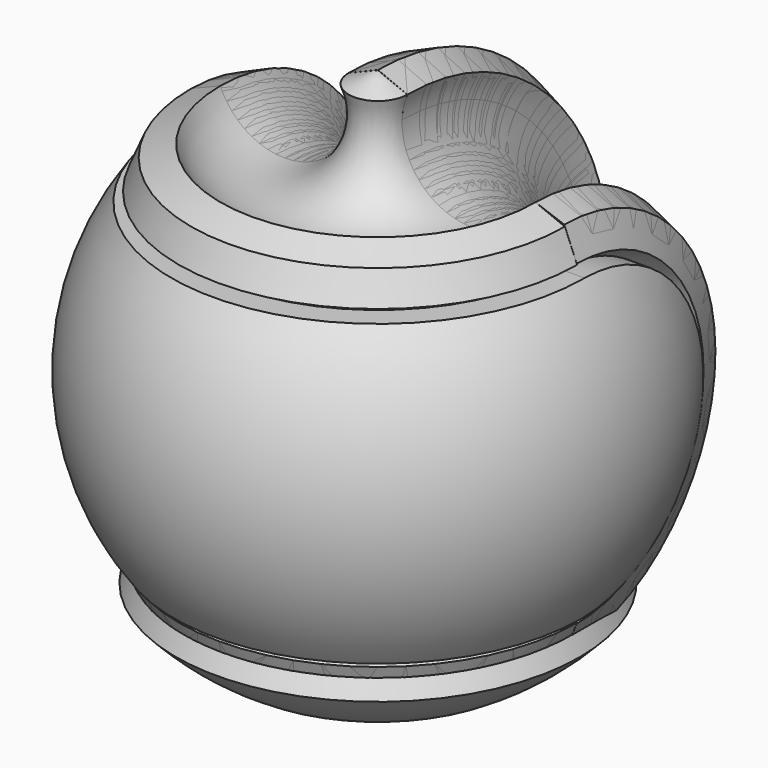
from build123d import *

# Parameters (mm, degrees)
PAD001_DEPTH        = 75
REVOLUTION_ANGLE    = 180
PAD_DEPTH           = 75
REVOLUTION001_ANGLE = -180
PAD002_DEPTH        = 1
PAD003_DEPTH        = 75
SKETCH017_W         = 91.527866
SKETCH017_H         = 19.226277
PAD010_DEPTH        = 47.5
SKETCH015_W         = 1
SKETCH015_H         = 25
PAD009_DEPTH        = 27.5
SKETCH016_W         = 13.505972
SKETCH016_H         = 9.125655
SKETCH016_H_2       = 9.612357
SKETCH016_H_3       = 9.734032
POCKET_DEPTH        = 5
SKETCH014_W         = 12.4
SKETCH014_H         = 12.4
PAD008_DEPTH        = 50
CHAMFER_SIZE        = 4
PAD005_DEPTH        = 75
REVOLUTION004_ANGLE = 180
PAD004_DEPTH        = 75
REVOLUTION003_ANGLE = -180
PAD006_DEPTH        = 1
PAD007_DEPTH        = 1
FILLET_R            = 0.9
FILLET001_R         = 0.8


with BuildPart() as pad001:
    # Sketch003 → Pad001 (new body, symmetric)
    with BuildSketch(Plane.YZ):
        with BuildLine():
            Line((-0.010298, 25.66333), (-100, 25.66333))
            Line((-100, 25.66333), (-100, -26.33667))
            Line((-0.010304, -26.33667), (-100, -26.33667))
            ThreePointArc((-0.010304, -26.33667), (25.989696, -0.336673), (-0.010298, 25.66333))
        make_face()
    extrude(amount=PAD001_DEPTH, both=True)


with BuildPart() as cut:
    # Sketch → Revolution (revolve)
    with BuildSketch(Plane.XZ):
        with BuildLine():
            Line((-45.729943, -0.0001), (-43.624967, -5.081343))
            ThreePointArc((-34.439694, -27.25386), (-27.946521, -11.575151), (-43.624967, -5.081343))
            Line((-34.439694, -27.25386), (-32.33569, -32.332756))
            Line((-32.33569, -32.332756), (-27.247774, -34.437871))
            ThreePointArc((-5.088903, -43.606058), (-11.588515, -27.952849), (-27.247774, -34.437871))
            Line((-5.088903, -43.606058), (0, -45.711581))
            Line((0, 45.696878), (0, -45.711581))
            Line((0, 45.696878), (-5.062139, 43.628512))
            ThreePointArc((-27.25988, 34.445118), (-11.589352, 27.986384), (-5.062139, 43.628512))
            Line((-32.322868, 32.378834), (-27.25988, 34.445118))
            Line((-34.440544, 27.25445), (-32.322868, 32.378834))
            ThreePointArc((-43.624947, 5.081341), (-27.946189, 11.575693), (-34.440544, 27.25445))
            Line((-43.624947, 5.081341), (-45.729943, -0.0001))
        make_face()
    revolve(axis=Axis((0, 0, 0), (0, 0, 1)), revolution_arc=REVOLUTION_ANGLE)

    # Cut: cut Pad001
    add(pad001.part, mode=Mode.SUBTRACT)


with BuildPart() as pad:
    # Sketch002 → Pad (new body, symmetric)
    with BuildSketch(Plane.YZ):
        with BuildLine():
            Line((-0.010292, 25.66333), (-52.710026, 25.66333))
            Line((-52.710026, 25.66333), (-52.710026, -26.33667))
            Line((-0.010304, -26.33667), (-52.710026, -26.33667))
            ThreePointArc((-0.010304, -26.33667), (25.989696, -0.336676), (-0.010292, 25.66333))
        make_face()
    extrude(amount=PAD_DEPTH, both=True)


with BuildPart() as pad002:
    # Sketch001 → Revolution001 (revolve)
    with BuildSketch(Plane(origin=(0, 0, 0), x_dir=(0, 0, -1), z_dir=(0, -1, 0))):
        with BuildLine():
            Line((-45.729943, -0.0001), (-43.624967, -5.081343))
            ThreePointArc((-34.439694, -27.25386), (-27.946521, -11.575151), (-43.624967, -5.081343))
            Line((-34.439694, -27.25386), (-32.33569, -32.332756))
            Line((-32.33569, -32.332756), (-27.247774, -34.437871))
            ThreePointArc((-5.088903, -43.606058), (-11.588515, -27.952849), (-27.247774, -34.437871))
            Line((-5.088903, -43.606058), (0, -45.711581))
            Line((0, 45.713883), (0, -45.711581))
            Line((0, 45.713883), (-5.281246, 43.646133))
            ThreePointArc((-27.417278, 34.389038), (-11.825552, 28.200262), (-5.281246, 43.646133))
            Line((-32.665373, 32.238537), (-27.417278, 34.389038))
            Line((-34.440544, 27.25445), (-32.665373, 32.238537))
            ThreePointArc((-43.624947, 5.081341), (-27.946189, 11.575693), (-34.440544, 27.25445))
            Line((-43.624947, 5.081341), (-45.729943, -0.0001))
        make_face()
    revolve(axis=Axis((0, 0, 0), (1, 0, 0)), revolution_arc=REVOLUTION001_ANGLE)

    # Cut001: cut Pad
    add(pad.part, mode=Mode.SUBTRACT)

    # Fusion: union Cut
    add(cut.part)

    # Sketch004 → Pad002 (new body)
    with BuildSketch(Plane(origin=(0, 0, 25.66333), x_dir=(1, 0, 0), z_dir=(0, 0, -1))):
        with BuildLine():
            ThreePointArc((-18.734768, 22.136135), (-22.323861, 18.510679), (-25.222121, 14.312394))
            Line((-26.903501, 15.401352), (-25.222121, 14.312394))
            ThreePointArc((-19.955973, 23.722545), (-23.796284, 19.867986), (-26.903501, 15.401352))
            Line((-19.955973, 23.722545), (-18.734768, 22.136135))
        make_face()
        with BuildLine():
            Line((-5.112838, 30.575462), (-5.112838, 28.545733))
            ThreePointArc((5.211598, 28.527868), (0.050181, 28.999957), (-5.112838, 28.545733))
            Line((5.211598, 30.558783), (5.211598, 28.527868))
            ThreePointArc((5.211598, 30.558783), (0.050079, 30.99996), (-5.112838, 30.575462))
        make_face()
        with BuildLine():
            Line((26.862871, 15.47211), (25.078509, 14.562568))
            ThreePointArc((25.078509, 14.562568), (22.17381, 18.690161), (18.597456, 22.251621))
            Line((19.892506, 23.77579), (18.597456, 22.251621))
            ThreePointArc((26.862871, 15.47211), (23.743506, 19.931029), (19.892506, 23.77579))
        make_face()
    extrude(amount=PAD002_DEPTH)


with BuildPart() as revolution002:
    # Sketch006 → Revolution002 (revolve)
    with BuildSketch(Plane.XZ):
        with BuildLine():
            ThreePointArc((-5e-06, 37), (-37, -3e-06), (0, -37))
            Line((0, -37), (0, -44))
            ThreePointArc((-5e-06, 44), (-44, -3e-06), (0, -44))
            Line((-5e-06, 37), (-5e-06, 44))
        make_face()
    revolve(axis=Axis((0, 0, 0), (0, 0, 1)))


with BuildPart() as common:
    # Sketch005 → Pad003 (new body, symmetric)
    with BuildSketch(Plane.YZ):
        with BuildLine():
            Line((-0.010298, 25.66333), (-100, 25.66333))
            Line((-100, 25.66333), (-100, -26.33667))
            Line((-0.010304, -26.33667), (-100, -26.33667))
            ThreePointArc((-0.010304, -26.33667), (25.989696, -0.336673), (-0.010298, 25.66333))
        make_face()
    extrude(amount=PAD003_DEPTH, both=True)

    # Common: intersect Revolution002
    add(revolution002.part, mode=Mode.INTERSECT)


with BuildPart() as pad010:
    # Sketch017 → Pad010 (new body, symmetric)
    with BuildSketch(Plane.XZ):
        with Locations((1.78233, -50.561166)):
            Rectangle(SKETCH017_W, SKETCH017_H)
    extrude(amount=PAD010_DEPTH, both=True)


with BuildPart() as pocket:
    # Sketch015 → Pad009 (new body, symmetric)
    with BuildSketch(Plane.YZ):
        with Locations((23.000852, -0.059134)):
            Rectangle(SKETCH015_W, SKETCH015_H)
    extrude(amount=PAD009_DEPTH, both=True)

    # Sketch016 → Pocket (cut)
    with BuildSketch(Plane(origin=(0, 22.500852, 0), x_dir=(0, 0, -1), z_dir=(0, -1, 0))):
        with Locations((-10.452033, 16.741771)):
            Rectangle(SKETCH016_W, SKETCH016_H)
        with Locations((10.452033, 16.741771)):
            Rectangle(SKETCH016_W, SKETCH016_H)
        with Locations((-10.330358, -16.498419)):
            Rectangle(SKETCH016_W, SKETCH016_H_2)
        with Locations((10.452033, -16.437582)):
            Rectangle(SKETCH016_W, SKETCH016_H_3)
    extrude(amount=-POCKET_DEPTH, mode=Mode.SUBTRACT)


with BuildPart() as pad008:
    # Sketch014 → Pad008 (new body, symmetric)
    with BuildSketch(Plane.XZ):
        with Locations((-16.599269, 0)):
            Rectangle(SKETCH014_W, SKETCH014_H)
        with Locations((16.599269, 0)):
            Rectangle(SKETCH014_W, SKETCH014_H)
    extrude(amount=PAD008_DEPTH, both=True)


with BuildPart() as chamfer_body:
    # Sketch013 → Revolution005 (revolve)
    with BuildSketch(Plane.XZ):
        with BuildLine():
            ThreePointArc((10.008443, -46.518567), (25.281665, -40.311083), (37.519896, -29.26437))
            Line((0, -29.26437), (37.519896, -29.26437))
            Line((0, -29.26437), (0, -46.518567))
            Line((0, -46.518567), (10.008443, -46.518567))
        make_face()
    revolve(axis=Axis((0, 0, 0), (0, 0, 1)))

    # Chamfer
    chamfer_edges = [chamfer_body.edges().sort_by_distance(p)[0] for p in [
        (-37.519896, 0, -29.26437),
    ]]
    chamfer(chamfer_edges, length=CHAMFER_SIZE)


with BuildPart() as pad005:
    # Sketch010 → Pad005 (new body, symmetric)
    with BuildSketch(Plane.YZ):
        with BuildLine():
            Line((-0.010298, 25.66333), (-100, 25.66333))
            Line((-100, 25.66333), (-100, -26.33667))
            Line((-0.010304, -26.33667), (-100, -26.33667))
            ThreePointArc((-0.010304, -26.33667), (25.989696, -0.336673), (-0.010298, 25.66333))
        make_face()
    extrude(amount=PAD005_DEPTH, both=True)


with BuildPart() as cut002:
    # Sketch007 → Revolution004 (revolve)
    with BuildSketch(Plane.XZ):
        with BuildLine():
            Line((-45.729943, -0.0001), (-43.624967, -5.081343))
            ThreePointArc((-34.439694, -27.25386), (-27.946521, -11.575151), (-43.624967, -5.081343))
            Line((-34.439694, -27.25386), (-32.33569, -32.332756))
            Line((-32.33569, -32.332756), (-27.247774, -34.437871))
            ThreePointArc((-5.088903, -43.606058), (-11.588515, -27.952849), (-27.247774, -34.437871))
            Line((-5.088903, -43.606058), (0, -45.711581))
            Line((0, 45.696878), (0, -45.711581))
            Line((0, 45.696878), (-5.062139, 43.628512))
            ThreePointArc((-27.25988, 34.445118), (-11.589352, 27.986384), (-5.062139, 43.628512))
            Line((-32.322868, 32.378834), (-27.25988, 34.445118))
            Line((-34.440544, 27.25445), (-32.322868, 32.378834))
            ThreePointArc((-43.624947, 5.081341), (-27.946189, 11.575693), (-34.440544, 27.25445))
            Line((-43.624947, 5.081341), (-45.729943, -0.0001))
        make_face()
    revolve(axis=Axis((0, 0, 0), (0, 0, 1)), revolution_arc=REVOLUTION004_ANGLE)

    # Cut002: cut Pad005
    add(pad005.part, mode=Mode.SUBTRACT)


with BuildPart() as pad004:
    # Sketch009 → Pad004 (new body, symmetric)
    with BuildSketch(Plane.YZ):
        with BuildLine():
            Line((-0.010292, 25.66333), (-52.710026, 25.66333))
            Line((-52.710026, 25.66333), (-52.710026, -26.33667))
            Line((-0.010304, -26.33667), (-52.710026, -26.33667))
            ThreePointArc((-0.010304, -26.33667), (25.989696, -0.336676), (-0.010292, 25.66333))
        make_face()
    extrude(amount=PAD004_DEPTH, both=True)


with BuildPart() as cut005:
    # Sketch008 → Revolution003 (revolve)
    with BuildSketch(Plane(origin=(0, 0, 0), x_dir=(0, 0, -1), z_dir=(0, -1, 0))):
        with BuildLine():
            Line((-45.729943, -0.0001), (-43.624967, -5.081343))
            ThreePointArc((-34.439694, -27.25386), (-27.946521, -11.575151), (-43.624967, -5.081343))
            Line((-34.439694, -27.25386), (-32.33569, -32.332756))
            Line((-32.33569, -32.332756), (-27.247774, -34.437871))
            ThreePointArc((-5.088903, -43.606058), (-11.588515, -27.952849), (-27.247774, -34.437871))
            Line((-5.088903, -43.606058), (0, -45.711581))
            Line((0, 45.713883), (0, -45.711581))
            Line((0, 45.713883), (-5.281246, 43.646133))
            ThreePointArc((-27.417278, 34.389038), (-11.825552, 28.200262), (-5.281246, 43.646133))
            Line((-32.665373, 32.238537), (-27.417278, 34.389038))
            Line((-34.440544, 27.25445), (-32.665373, 32.238537))
            ThreePointArc((-43.624947, 5.081341), (-27.946189, 11.575693), (-34.440544, 27.25445))
            Line((-43.624947, 5.081341), (-45.729943, -0.0001))
        make_face()
    revolve(axis=Axis((0, 0, 0), (1, 0, 0)), revolution_arc=REVOLUTION003_ANGLE)

    # Cut003: cut Pad004
    add(pad004.part, mode=Mode.SUBTRACT)

    # Fusion001: union Cut002
    add(cut002.part)

    # Sketch011 → Pad006 (new body)
    with BuildSketch(Plane(origin=(0, 0, 25.66333), x_dir=(1, 0, 0), z_dir=(0, 0, -1))):
        with BuildLine():
            ThreePointArc((-18.734768, 22.136135), (-22.323861, 18.510679), (-25.222121, 14.312394))
            Line((-26.903501, 15.401352), (-25.222121, 14.312394))
            ThreePointArc((-19.955973, 23.722545), (-23.796284, 19.867986), (-26.903501, 15.401352))
            Line((-19.955973, 23.722545), (-18.734768, 22.136135))
        make_face()
        with BuildLine():
            Line((-5.112838, 30.575462), (-5.112838, 28.545733))
            ThreePointArc((5.211598, 28.527868), (0.050181, 28.999957), (-5.112838, 28.545733))
            Line((5.211598, 30.558783), (5.211598, 28.527868))
            ThreePointArc((5.211598, 30.558783), (0.050079, 30.99996), (-5.112838, 30.575462))
        make_face()
        with BuildLine():
            Line((26.862871, 15.47211), (25.078509, 14.562568))
            ThreePointArc((25.078509, 14.562568), (22.17381, 18.690161), (18.597456, 22.251621))
            Line((19.892506, 23.77579), (18.597456, 22.251621))
            ThreePointArc((26.862871, 15.47211), (23.743506, 19.931029), (19.892506, 23.77579))
        make_face()
    extrude(amount=PAD006_DEPTH)

    # Sketch012 → Pad007 (new body)
    with BuildSketch(Plane.XY.offset(-26.33667)):
        with BuildLine():
            ThreePointArc((-25.32235, -14.37851), (-22.343365, -18.674502), (-18.644251, -22.368613))
            Line((-18.644251, -22.368613), (-19.703461, -23.650608))
            ThreePointArc((-26.82587, -15.098025), (-23.654415, -19.698891), (-19.703461, -23.650608))
            Line((-25.32235, -14.37851), (-26.82587, -15.098025))
        make_face()
        with BuildLine():
            Line((-5.215949, -28.648854), (-5.215949, -30.337626))
            ThreePointArc((-5.215949, -30.337626), (0.060202, -30.78269), (5.334572, -30.316992))
            Line((5.334572, -28.627003), (5.334572, -30.316992))
            ThreePointArc((-5.215949, -28.648854), (0.060309, -29.119741), (5.334572, -28.627003))
        make_face()
        with BuildLine():
            Line((18.417055, -22.556042), (19.644005, -23.700015))
            ThreePointArc((19.644005, -23.700015), (23.554115, -19.818712), (26.709722, -15.302561))
            Line((25.167814, -14.647323), (26.709722, -15.302561))
            ThreePointArc((18.417055, -22.556042), (22.148299, -18.905443), (25.167814, -14.647323))
        make_face()
    extrude(amount=PAD007_DEPTH)

    # Fillet
    fillet_edges = [cut005.edges().sort_by_distance(p)[0] for p in [
        (-19.34537, -22.92934, 24.66333),
        (-22.323861, -18.510679, 24.66333),
        (-26.062811, -14.856873, 24.66333),
        (-23.796284, -19.867986, 24.66333),
        (0.050079, -30.99996, 24.66333),
        (-5.112838, -29.560598, 24.66333),
        (0.050181, -28.999957, 24.66333),
        (5.211598, -29.543326, 24.66333),
        (25.97069, -15.017339, 24.66333),
        (22.17381, -18.690161, 24.66333),
        (19.244981, -23.013706, 24.66333),
        (23.743506, -19.931029, 24.66333),
    ]]
    fillet(fillet_edges, radius=FILLET_R)

    # Fillet001
    fillet001_edges = [cut005.edges().sort_by_distance(p)[0] for p in [
        (22.148299, -18.905443, -25.33667),
        (19.03053, -23.128029, -25.33667),
        (23.554115, -19.818712, -25.33667),
        (25.938768, -14.974942, -25.33667),
        (0.060309, -29.119741, -25.33667),
        (-5.215949, -29.49324, -25.33667),
        (0.060202, -30.78269, -25.33667),
        (5.334572, -29.471997, -25.33667),
        (-22.343365, -18.674502, -25.33667),
        (-19.173856, -23.009611, -25.33667),
        (-23.654415, -19.698891, -25.33667),
        (-26.07411, -14.738268, -25.33667),
    ]]
    fillet(fillet001_edges, radius=FILLET001_R)

    # Fusion002: union Chamfer body
    add(chamfer_body.part)

    # Cut004: cut Pad008
    add(pad008.part, mode=Mode.SUBTRACT)

    # Fusion003: union Pocket
    add(pocket.part)

    # Cut005: cut Pad010
    add(pad010.part, mode=Mode.SUBTRACT)


solid = Compound([pad002.part, common.part, cut005.part])
